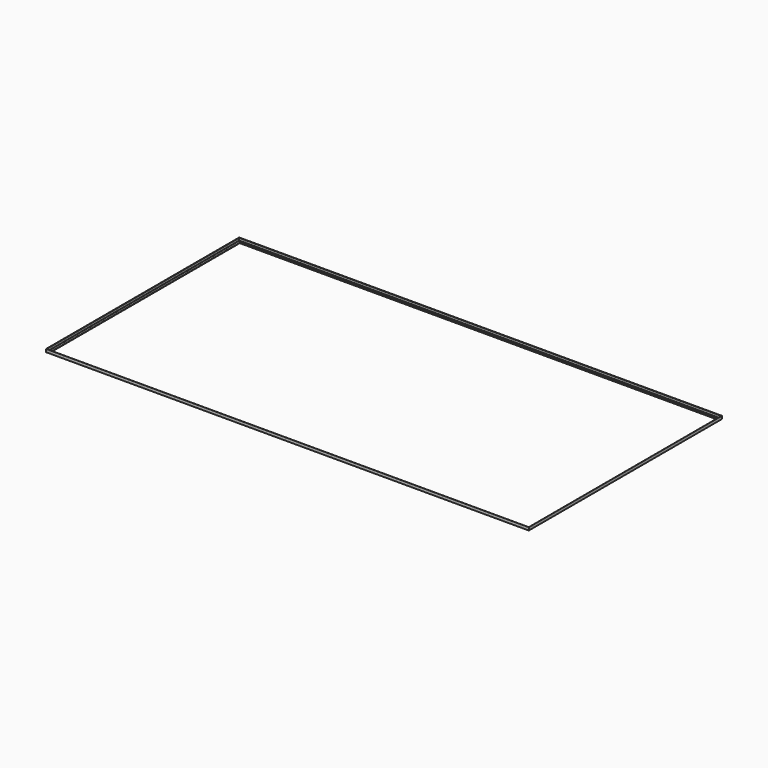
from build123d import *


with BuildPart() as f2:
    # F2: sweep along a path in F0
    with BuildLine(Plane.XY) as f2_path:
        Line((5000, 2500), (-5000, 2500))
        Line((-5000, 2500), (-5000, -2500))
        Line((-5000, -2500), (5000, -2500))
        Line((5000, -2500), (5000, 2500))
    # F1 (on Right) → F2 (sweep)
    with BuildSketch(Plane.YZ):
        with BuildLine():
            Line((2440, 0), (2500, 0))
            Line((2500, 0), (2500, 60))
            Line((2500, 60), (2499, 60))
            ThreePointArc((2499, 60), (2495.4644660941, 58.5355339059), (2494, 55))
            Line((2494, 55), (2494, 11))
            ThreePointArc((2494, 11), (2492.5355339059, 7.4644660941), (2489, 6))
            Line((2489, 6), (2445, 6))
            ThreePointArc((2445, 6), (2441.4644660941, 4.5355339059), (2440, 1))
            Line((2440, 1), (2440, 0))
        make_face()
    sweep(path=f2_path.line, transition=Transition.RIGHT)


solid = f2.part
